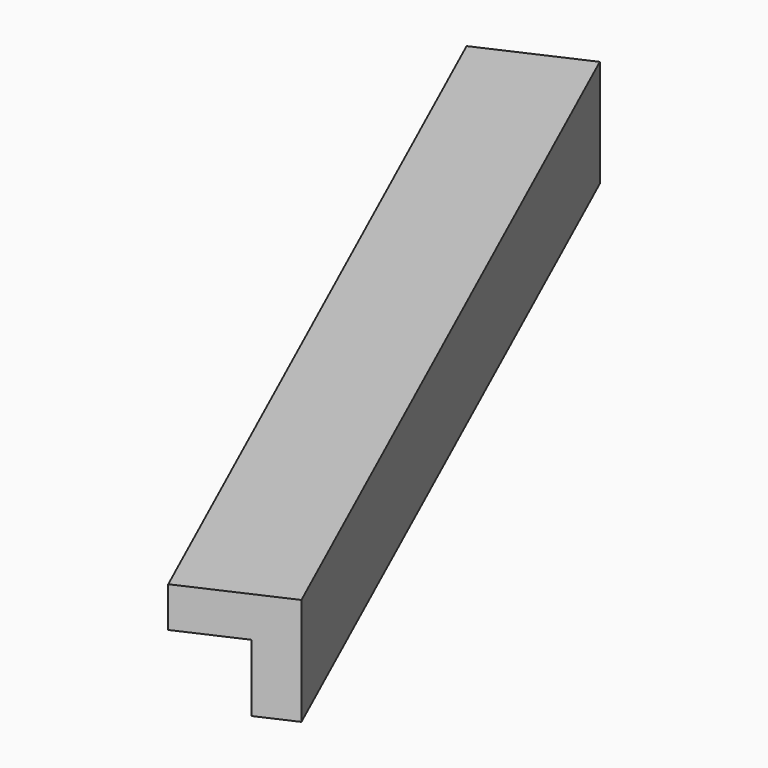
from build123d import *

# Parameters (mm, degrees)
BOX147_W               = 0.8
BOX147_H               = 7
BOX147_DEPTH           = 0.8
BOX148_W               = 0.8
BOX148_H               = 7
BOX148_DEPTH           = 0.8
CUT077_PLACEMENT_ANGLE = 24.3


with BuildPart() as cubo147:
    # Box147 → Box147 (new body)
    with BuildSketch(Plane.XY):
        with Locations((0.4, 3.5)):
            Rectangle(BOX147_W, BOX147_H)
    extrude(amount=BOX147_DEPTH)


with BuildPart() as obj1:
    # Box148 → Box148 (new body)
    with BuildSketch(Plane(origin=(0.3, 0, 0.3), x_dir=(1, 0, 0), z_dir=(0, 0, 1))):
        with Locations((0.4, 3.5)):
            Rectangle(BOX148_W, BOX148_H)
    extrude(amount=BOX148_DEPTH)

    # Cut077: cut Cubo147
    add(cubo147.part, mode=Mode.SUBTRACT)


with BuildPart() as obj1_1:
    # Cut077 placement: moved
    add(obj1.part.moved(Location((-95, 206, -1.45))).rotate(Axis((-95, 206, -1.45), (0, 0, 1)), CUT077_PLACEMENT_ANGLE))


solid = obj1_1.part
